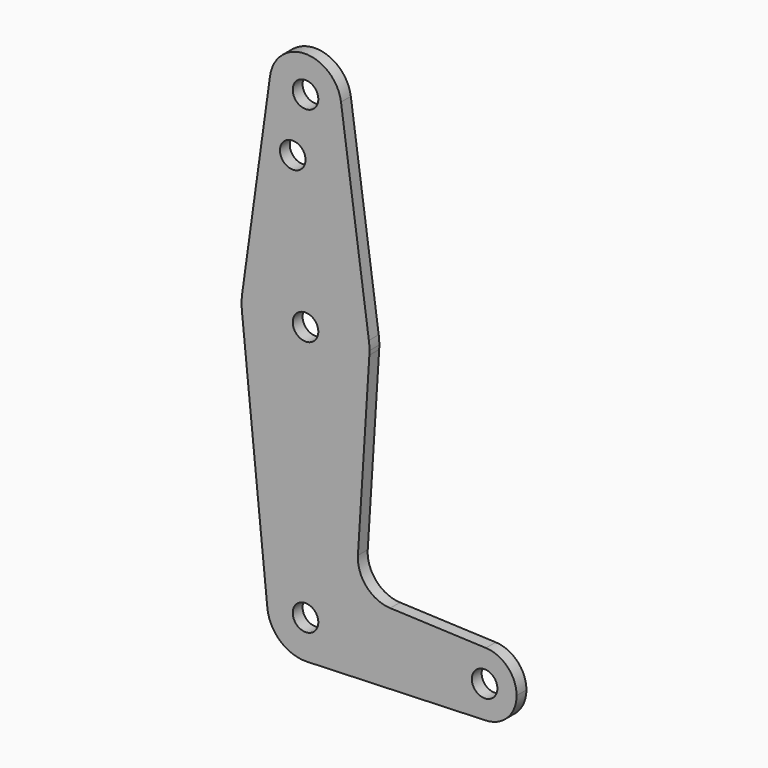
from build123d import *

# Parameters (mm, degrees)
F0_R     = 3.175
F1_DEPTH = 3.048


with BuildPart() as f1:
    # F0 (on Front) → F1 (new body)
    with BuildSketch(Plane.XZ):
        with BuildLine():
            Line((-8.805561, 52.022375), (-15.724216, 2.182812))
            ThreePointArc((-15.724216, 2.182812), (0, 15.875), (15.724216, 2.182812))
            Line((15.724216, 2.182812), (8.805561, 52.022375))
            ThreePointArc((8.805561, 52.022375), (8.868865, 51.412644), (8.89, 50.8))
            ThreePointArc((8.89, 50.8), (-0.612644, 41.931135), (-8.805561, 52.022375))
        make_face()
        with Locations((-3.175, 36.5252)):
            Circle(F0_R, mode=Mode.SUBTRACT)
        with BuildLine():
            ThreePointArc((8.805561, 52.022375), (0, 59.69), (-8.805561, 52.022375))
            ThreePointArc((-8.805561, 52.022375), (-0.612644, 41.931135), (8.89, 50.8))
            ThreePointArc((8.89, 50.8), (8.868865, 51.412644), (8.805561, 52.022375))
        make_face()
        with Locations((0, 50.8)):
            Circle(F0_R, mode=Mode.SUBTRACT)
        with BuildLine():
            ThreePointArc((-15.724216, 2.182812), (-15.872169, 0.299778), (-15.795426, -1.5875))
            ThreePointArc((-15.795426, -1.5875), (0.291123, -15.87233), (15.843016, -1.007203))
            ThreePointArc((15.843016, -1.007203), (15.867002, -0.503855), (15.875, 0))
            ThreePointArc((15.875, 0), (15.837259, 1.094007), (15.724216, 2.182812))
            ThreePointArc((15.724216, 2.182812), (0, 15.875), (-15.724216, 2.182812))
        make_face()
        Circle(F0_R, mode=Mode.SUBTRACT)
        with BuildLine():
            ThreePointArc((-9.477255, -64.4525), (-0.476848, -53.986944), (9.525, -63.5))
            ThreePointArc((9.525, -63.5), (6.854408, -70.113827), (0.340179, -73.018923))
            Line((0.340179, -73.018923), (44.733482, -71.432436))
            ThreePointArc((44.733482, -71.432436), (36.51253, -63.478286), (44.776879, -55.569234))
            Line((44.776879, -55.569234), (21.022698, -54.590168))
            ThreePointArc((21.022698, -54.590168), (15.138949, -51.82405), (13.00277, -45.683476))
            Line((13.00277, -45.683476), (15.843016, -1.007203))
            ThreePointArc((15.843016, -1.007203), (0.291123, -15.87233), (-15.795426, -1.5875))
            Line((-15.795426, -1.5875), (-9.477255, -64.4525))
        make_face()
        with BuildLine():
            ThreePointArc((0.340179, -73.018923), (6.854408, -70.113827), (9.525, -63.5))
            ThreePointArc((9.525, -63.5), (-0.476848, -53.986944), (-9.477255, -64.4525))
            ThreePointArc((-9.477255, -64.4525), (-6.262383, -70.67692), (0.340179, -73.018923))
        make_face()
        with Locations((0, -63.5)):
            Circle(F0_R, mode=Mode.SUBTRACT)
        with BuildLine():
            ThreePointArc((44.776879, -55.569234), (36.51253, -63.478286), (44.733482, -71.432436))
            ThreePointArc((44.733482, -71.432436), (50.162007, -69.011523), (52.3875, -63.5))
            ThreePointArc((52.3875, -63.5), (50.177063, -58.004124), (44.776879, -55.569234))
        make_face()
        with Locations((44.45, -63.5)):
            Circle(F0_R, mode=Mode.SUBTRACT)
    extrude(amount=F1_DEPTH)


solid = f1.part
